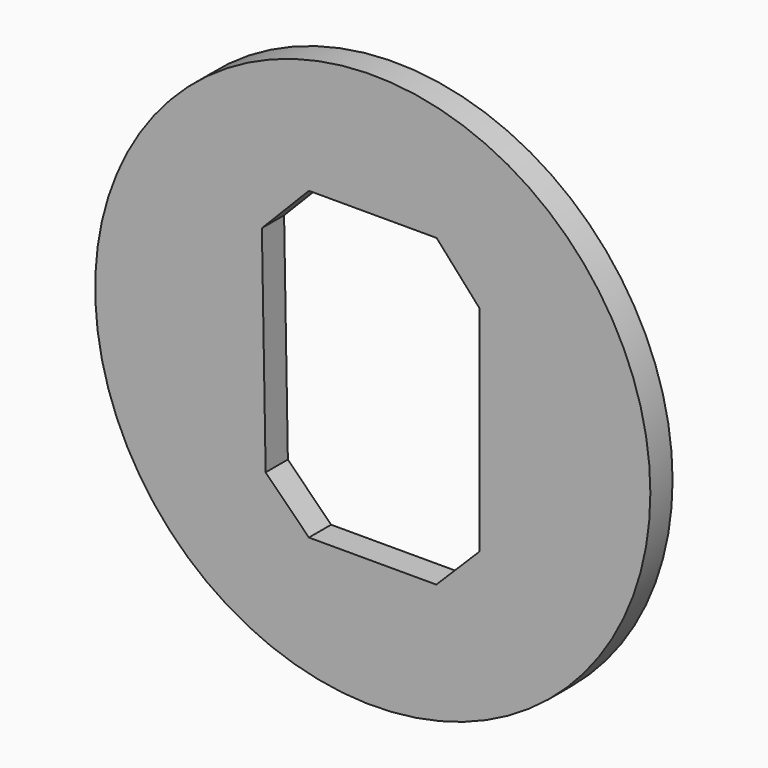
from build123d import *

# Parameters (mm, degrees)
F0_R     = 10
F1_DEPTH = 1
F3_DEPTH = 0.7
F4_DEPTH = 1


with BuildPart() as f1:
    # F0 (on Front) → F1 (new body)
    with BuildSketch(Plane.XZ):
        Circle(F0_R)
    extrude(amount=F1_DEPTH)

    # F2 (on Front) → F3 (cut)
    with BuildSketch(Plane.XZ):
        Polygon((2.3, 5.581941), (0, 5.581941), (-2.3, 5.581941), (-3.99405, 3.847297), (-3.858357, -3.854667), (-2.3, -5.414516), (2.289638, -5.414516), (3.85098, -3.854667), (3.85098, 3.847297), align=None)
    extrude(amount=-F3_DEPTH, mode=Mode.SUBTRACT)

    # F2 (on Front) → F4 (cut)
    with BuildSketch(Plane.XZ):
        Polygon((2.3, 5.581941), (0, 5.581941), (-2.3, 5.581941), (-3.99405, 3.847297), (-3.858357, -3.854667), (-2.3, -5.414516), (2.289638, -5.414516), (3.85098, -3.854667), (3.85098, 3.847297), align=None)
    extrude(amount=F4_DEPTH, mode=Mode.SUBTRACT)


solid = f1.part
